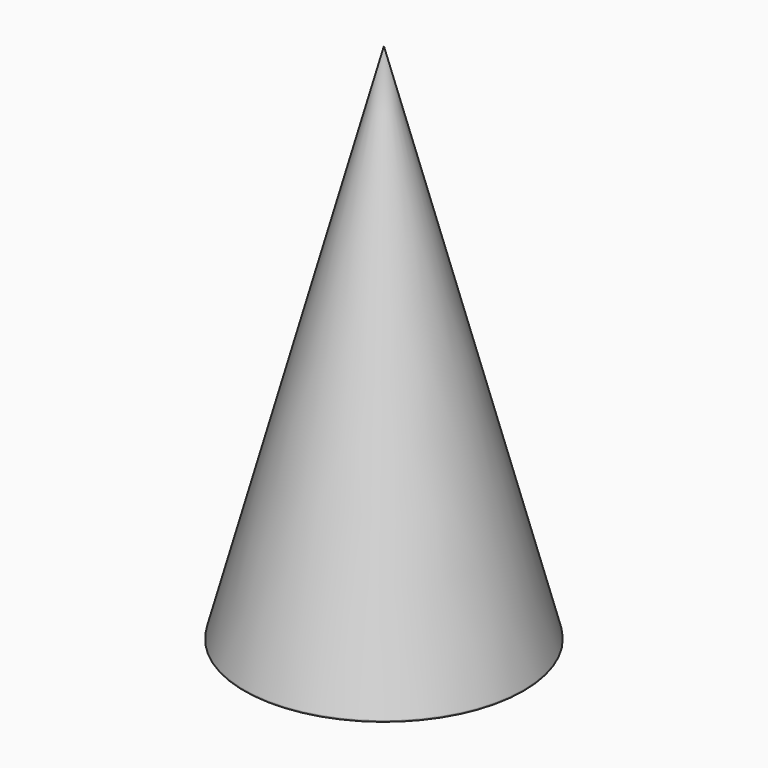
from build123d import *

# Parameters (mm, degrees)
F0_R     = 50.8
F1_DEPTH = 189.992
F2_SIZE2 = 50.8
F2_SIZE  = 189.5881810245
F4_D     = 86.36
F4_DEPTH = 18.542
F4_TIP   = 25.9451615296


with BuildPart() as f1:
    # F0 (on Top) → F1 (new body)
    with BuildSketch(Plane.XY):
        with Locations((-50.3493994474, 45.8692982793)):
            Circle(F0_R)
    extrude(amount=F1_DEPTH)

    # F2
    f2_edges = [f1.edges().sort_by_distance(p)[0] for p in [
        (-101.149399, 45.869298, 189.992),
    ]]
    f2_side = f1.faces().sort_by_distance((-101.149399, 45.869298, 94.996))[0]
    chamfer(f2_edges, length=F2_SIZE, length2=F2_SIZE2, reference=f2_side)

    # F4
    with Locations(Plane(origin=(0, 0, 0), x_dir=(1, 0, 0), z_dir=(0, 0, -1))):
        with Locations((-47.8219240904, -45.9640063345)):
            Hole(F4_D / 2, depth=F4_DEPTH)
            with Locations((0, 0, -(F4_DEPTH + F4_TIP / 2))):  # 118° drill point
                Cone(0, F4_D / 2, F4_TIP, mode=Mode.SUBTRACT)


solid = f1.part
